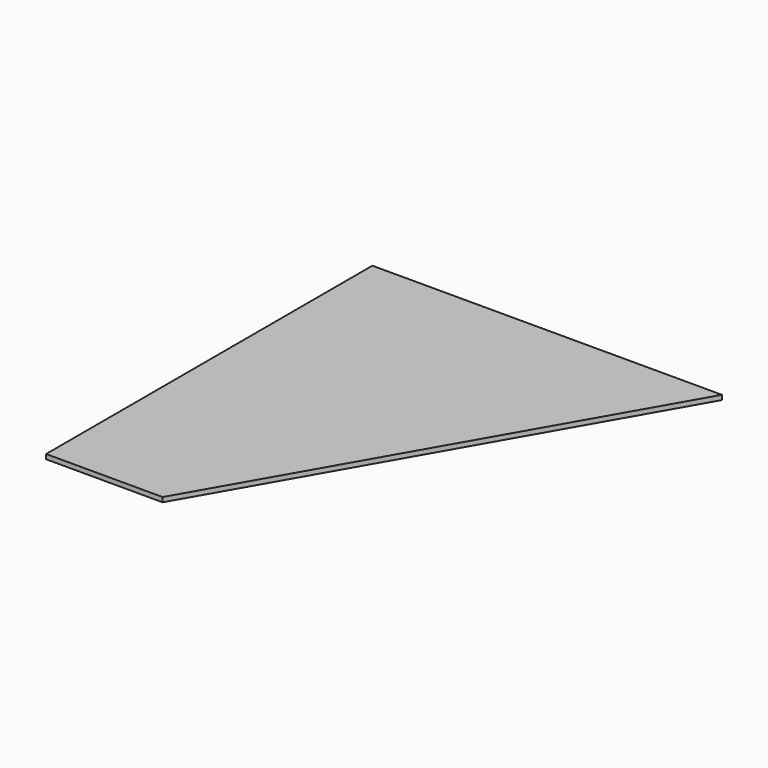
from build123d import *

# Parameters (mm, degrees)
F1_DEPTH = 4
F3_DEPTH = 4


with BuildPart() as f1:
    # F0 (on Top) → F1 (new body)
    with BuildSketch(Plane.XY):
        Polygon((0, 700), (0, 0), (400, 700), align=None)
    extrude(amount=F1_DEPTH)

    # F2 (on face) → F3 (cut, through all)
    with BuildSketch(Plane.XY.offset(4)):
        Polygon((100, 250), (0, 250), (0, 0), (400, 700), (0, 700), (0, 600), (300, 600), align=None)
    extrude(amount=-F3_DEPTH, mode=Mode.SUBTRACT)


solid = f1.part
